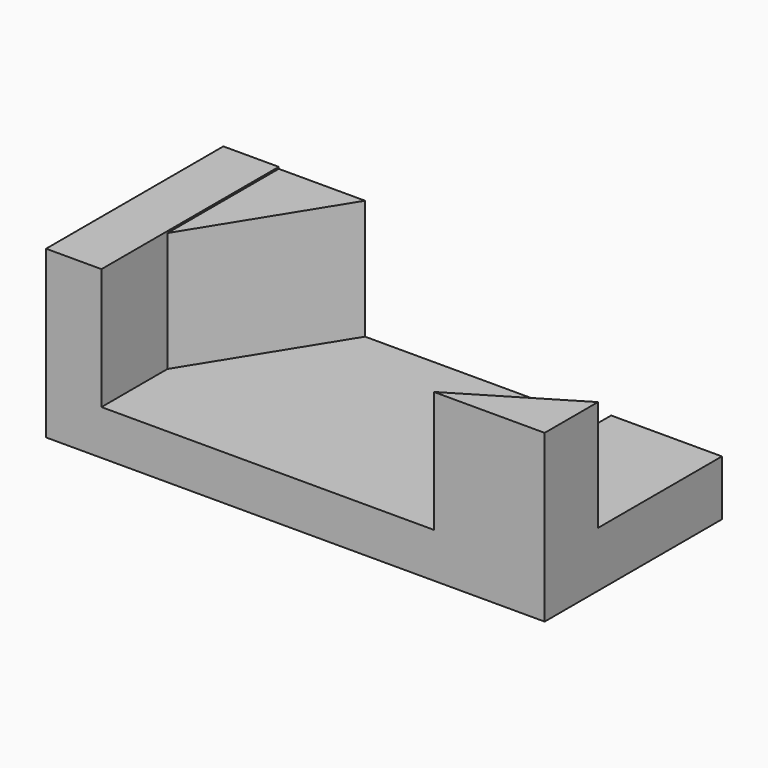
from build123d import *

# Parameters (mm, degrees)
F1_DEPTH = 25.4
F3_DEPTH = 12.7
F5_DEPTH = 13.716


with BuildPart() as f1:
    # F0 (on Front) → F1 (new body)
    with BuildSketch(Plane.XZ):
        Polygon((0, 19.05), (0, 0), (57.15, 0), (57.15, 19.05), (44.45, 19.05), (44.45, 5.132193), (6.35, 5.132193), (6.35, 19.05), align=None)
    extrude(amount=F1_DEPTH)

    # F2 (on face) → F3 (cut)
    with BuildSketch(Plane.XY.offset(19.05)):
        Polygon((44.45, 0), (44.45, -25.4), (57.15, -17.763132), (57.15, 0), align=None)
    extrude(amount=-F3_DEPTH, mode=Mode.SUBTRACT)

    # F4 (on face) → F5 (join)
    with BuildSketch(Plane.XY.offset(5.132193)):
        Polygon((6.35, 0), (6.35, -15.941272), (16.244914, 0), align=None)
    extrude(amount=F5_DEPTH)


solid = f1.part
